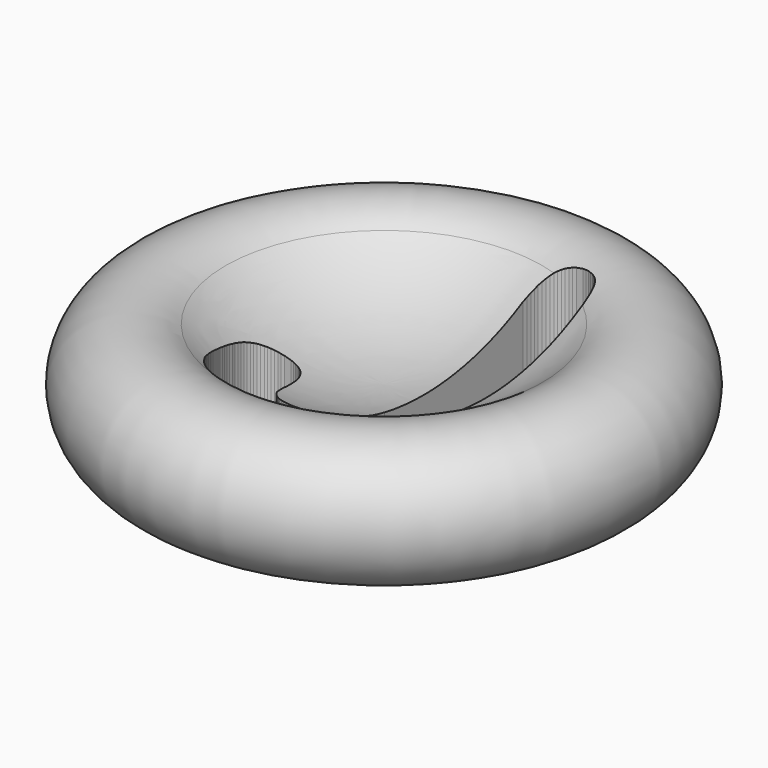
from build123d import *

# Parameters (mm, degrees)
F3_DEPTH = 25.4


with BuildPart() as f1:
    # F0 (on Front) → F1 (revolve)
    with BuildSketch(Plane.XZ):
        with BuildLine():
            ThreePointArc((0, 4.99999), (-6.324877, 6.025903), (-12.001193, 8.998444))
            ThreePointArc((-12.001193, 8.998444), (-19.718538, 6.65151), (-15.155324, 0))
            Line((-15.155324, 0), (0, 0))
            Line((0, 0), (0, 4.99999))
        make_face()
    revolve(axis=Axis((0, 0, 2.499995), (0, 0, -1)))

    # F2 (on Top) → F3 (cut)
    with BuildSketch(Plane.XY):
        Polygon((-7.606128, -4.044809), (-7.629714, -4.304244), (-7.6533, -4.563678), (-7.629714, -4.82311), (-7.629714, -5.10613), (-7.606128, -5.365564), (-7.558959, -5.648581), (-7.51179, -5.908016), (-7.464621, -6.191036), (-7.393866, -6.474053), (-7.323111, -6.757073), (-7.252356, -7.040091), (-7.158018, -7.323111), (-7.063677, -7.582545), (-6.969338, -7.841977), (-6.851412, -8.101411), (-6.757073, -8.337262), (-6.639149, -8.57311), (-6.521225, -8.808959), (-6.261791, -9.186317), (-6.002356, -9.563676), (-5.695753, -9.917448), (-5.38915, -10.224054), (-5.082546, -10.507072), (-4.728771, -10.766506), (-4.374999, -10.978771), (-3.99764, -11.191033), (-3.596696, -11.356129), (-3.148583, -11.497637), (-2.700469, -11.639147), (-2.228772, -11.733488), (-1.73349, -11.827826), (-1.214621, -11.874995), (-0.648584, -11.922167), (-0.082546, -11.922167), (0.554246, -11.898581), (1.167453, -11.851412), (1.757077, -11.780657), (2.323114, -11.662733), (2.84198, -11.497637), (3.360849, -11.332543), (3.856131, -11.120278), (4.32783, -10.860844), (4.752358, -10.577827), (5.153302, -10.271223), (5.530661, -9.941034), (5.884433, -9.587261), (6.191037, -9.209903), (6.450471, -8.785373), (6.709905, -8.360845), (6.92217, -7.889149), (7.016508, -7.606128), (7.134433, -7.323111), (7.228774, -7.040091), (7.299529, -6.780657), (7.370281, -6.497639), (7.441036, -6.214619), (7.488208, -5.931601), (7.511791, -5.672167), (7.55896, -5.389147), (7.582546, -5.082544), (7.606132, -4.77594), (7.629715, -4.445751), (7.629715, -4.091979), (7.653301, -3.738206), (7.653301, -3.384431), (7.653301, -2.983489), (7.653301, 9.09198), (7.653301, 9.422169), (7.606132, 9.752358), (7.55896, 10.058962), (7.488208, 10.318396), (7.393867, 10.57783), (7.299529, 10.813678), (7.158019, 11.025943), (7.016508, 11.214623), (6.851415, 11.379716), (6.662736, 11.521226), (6.474057, 11.63915), (6.261792, 11.733489), (6.049527, 11.827829), (5.813678, 11.874999), (5.554244, 11.922168), (5.29481, 11.922168), (5.035378, 11.922168), (4.799527, 11.874999), (4.563679, 11.827829), (4.32783, 11.733489), (4.139151, 11.63915), (3.950472, 11.521226), (3.761793, 11.379716), (3.596697, 11.214623), (3.455189, 11.025943), (3.337265, 10.813678), (3.219339, 10.57783), (3.148586, 10.318396), (3.077831, 10.058962), (3.030659, 9.752358), (2.98349, 9.422169), (2.98349, 9.09198), (2.98349, -3.667451), (2.936321, -4.728771), (2.794811, -5.672167), (2.558963, -6.45047), (2.20519, -7.08726), (1.78066, -7.582545), (1.238208, -7.936318), (0.601416, -8.148583), (-0.106132, -8.219335), (-0.38915, -8.219335), (-0.67217, -8.195752), (-0.908018, -8.148583), (-1.143866, -8.077828), (-1.356131, -8.007073), (-1.568394, -7.936318), (-1.73349, -7.818394), (-1.898583, -7.700469), (-2.063679, -7.558959), (-2.205187, -7.417449), (-2.323111, -7.275939), (-2.441037, -7.134432), (-2.558962, -6.969336), (-2.6533, -6.804242), (-2.724055, -6.639149), (-2.79481, -6.45047), (-2.865565, -6.261791), (-2.93632, -6.049526), (-3.007075, -5.837261), (-3.077828, -5.601412), (-3.124999, -5.341978), (-3.195754, -5.082544), (-3.266507, -4.799526), (-3.337262, -4.516506), (-3.408017, -4.233489), (-3.478772, -3.974054), (-3.549527, -3.738206), (-3.643865, -3.525941), (-3.738206, -3.313676), (-3.832544, -3.148583), (-3.950471, -2.983489), (-4.068395, -2.841979), (-4.186319, -2.700469), (-4.327829, -2.606131), (-4.469337, -2.51179), (-4.634433, -2.441035), (-4.823112, -2.37028), (-5.011791, -2.323111), (-5.224054, -2.299527), (-5.459905, -2.299527), (-5.695753, -2.299527), (-5.908016, -2.346697), (-6.120281, -2.37028), (-6.332546, -2.441035), (-6.521225, -2.535376), (-6.709904, -2.629714), (-6.874997, -2.747638), (-7.040091, -2.889148), (-7.181601, -3.030658), (-7.299525, -3.219338), (-7.393866, -3.384431), (-7.488204, -3.596696), (-7.558959, -3.808961), align=None)
    extrude(amount=F3_DEPTH, mode=Mode.SUBTRACT)


solid = f1.part
